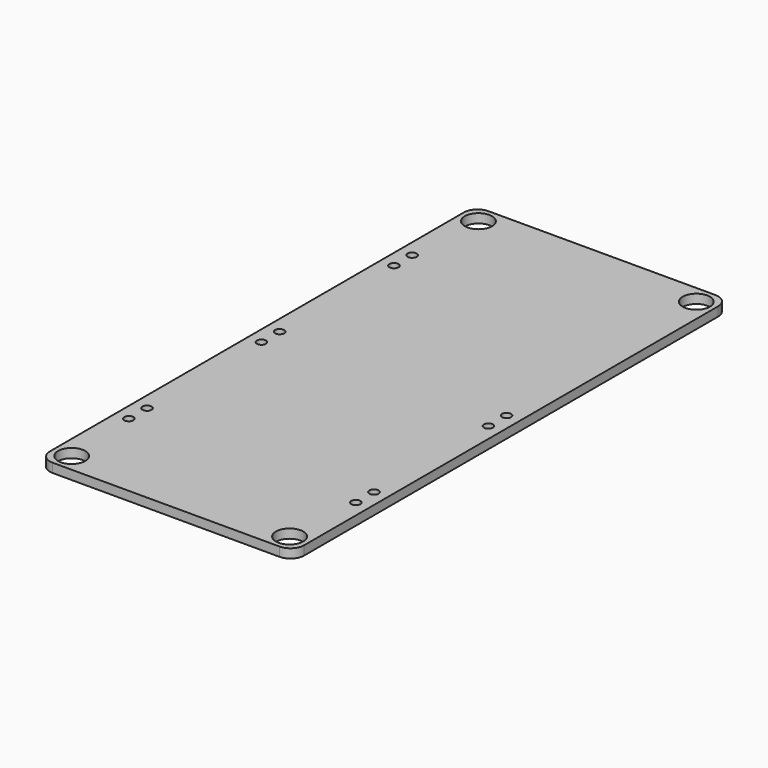
from build123d import *

# Parameters (mm, degrees)
SKETCH_R     = 1.5
PAD_DEPTH    = 1
SKETCH001_R  = 0.5
POCKET_DEPTH = 1.001


with BuildPart() as part:
    # Sketch → Pad (new body)
    with BuildSketch(Plane.XY):
        with BuildLine():
            Line((-12.5, 30), (12.5, 30))
            ThreePointArc((14, 28.5), (13.56066, 29.56066), (12.5, 30))
            Line((14, 28.5), (14, -28.5))
            ThreePointArc((12.5, -30), (13.56066, -29.56066), (14, -28.5))
            Line((12.5, -30), (-12.5, -30))
            ThreePointArc((-14, -28.5), (-13.56066, -29.56066), (-12.5, -30))
            Line((-14, -28.5), (-14, 28.5))
            ThreePointArc((-12.5, 30), (-13.56066, 29.56066), (-14, 28.5))
        make_face()
        with Locations((-12, 28)):
            Circle(SKETCH_R, mode=Mode.SUBTRACT)
        with Locations((12, 28)):
            Circle(SKETCH_R, mode=Mode.SUBTRACT)
        with Locations((-12, -28)):
            Circle(SKETCH_R, mode=Mode.SUBTRACT)
        with Locations((12, -28)):
            Circle(SKETCH_R, mode=Mode.SUBTRACT)
    extrude(amount=PAD_DEPTH)

    # Sketch001 → Pocket (cut, through all)
    with BuildSketch(Plane.XY):
        with Locations((-12.5, 19.5)):
            Circle(SKETCH001_R)
        with Locations((-12.5, 17)):
            Circle(SKETCH001_R)
        with Locations((-12.5, 1.25)):
            Circle(SKETCH001_R)
        with Locations((-12.5, -1.25)):
            Circle(SKETCH001_R)
        with Locations((-12.5, -17)):
            Circle(SKETCH001_R)
        with Locations((-12.5, -19.5)):
            Circle(SKETCH001_R)
        with Locations((12.5, -17)):
            Circle(SKETCH001_R)
        with Locations((12.5, -19.5)):
            Circle(SKETCH001_R)
        with Locations((12.5, 1.25)):
            Circle(SKETCH001_R)
        with Locations((12.5, -1.25)):
            Circle(SKETCH001_R)
    extrude(amount=POCKET_DEPTH, mode=Mode.SUBTRACT)


solid = part.part
